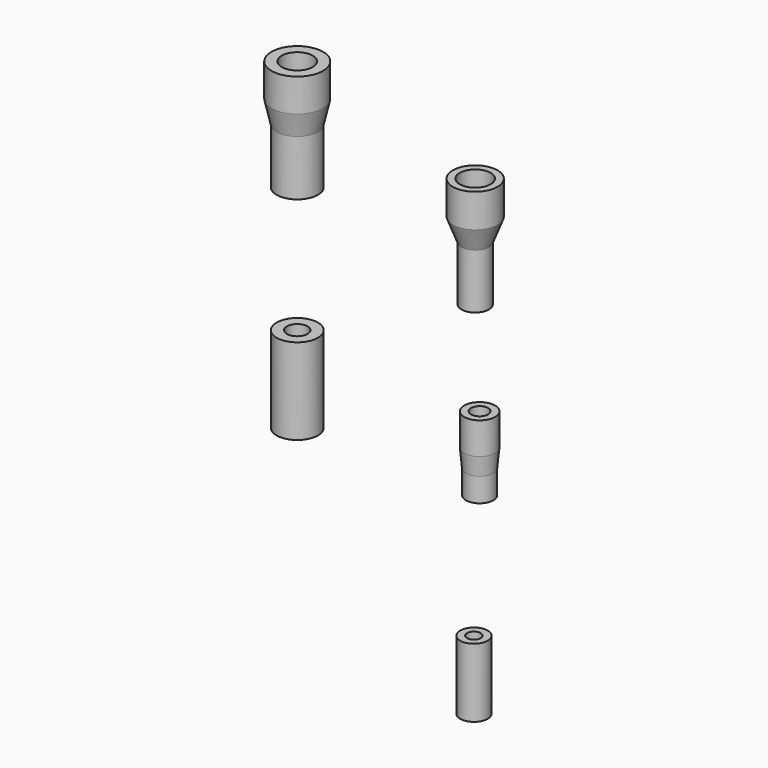
from build123d import *

# Parameters (mm, degrees)
F0_R     = 6
F0_R_2   = 3
F1_DEPTH = 25
F8_W     = 2
F8_H     = 20


with BuildPart() as f1:
    # F0 (on Top) → F1 (new body)
    with BuildSketch(Plane.XY):
        Circle(F0_R)
        Circle(F0_R_2, mode=Mode.SUBTRACT)
    extrude(amount=F1_DEPTH)


with BuildPart() as f3:
    # F2 (on Front) → F3 (revolve)
    with BuildSketch(Plane.XZ):
        Polygon((3, 77.877599), (3, 61.567154), (6, 61.567154), (6, 77.662082), (7.5, 84.196567), (7.5, 93.787088), (4.5, 93.787088), (4.5, 84.412084), align=None)
    revolve(axis=Axis((0, 0, 78.798079), (0, 0, 1)))


with BuildPart() as f5:
    # F4 (on Front) → F5 (revolve)
    with BuildSketch(Plane.XZ):
        Polygon((53.716872, 64.706706), (53.716872, 48.396261), (55.716872, 48.396261), (55.716872, 64.33718), (58.216871, 70.871666), (58.216871, 80.616195), (56.216871, 80.616195), (56.216871, 71.241191), align=None)
    revolve(axis=Axis((51.716872, 0, 65.627186), (0, 0, 1)))


with BuildPart() as f7:
    # F6 (on Front) → F7 (revolve)
    with BuildSketch(Plane.XZ):
        Polygon((55.009512, 7.01401), (55.009512, 0), (57.009512, 0), (57.009512, 6.92023), (57.509512, 12.240107), (57.509512, 21.496255), (55.509512, 21.496255), (55.509512, 12.333888), align=None)
    revolve(axis=Axis((53.009512, 0, 17.230925), (0, 0, 1)))


with BuildPart() as f9:
    # F8 (on Front) → F9 (revolve)
    with BuildSketch(Plane.XZ):
        with Locations((54.347832, -46.461293)):
            Rectangle(F8_W, F8_H)
    revolve(axis=Axis((51.347832, 0, -39.230368), (0, 0, 1)))


solid = Compound([f1.part, f3.part, f5.part, f7.part, f9.part])
